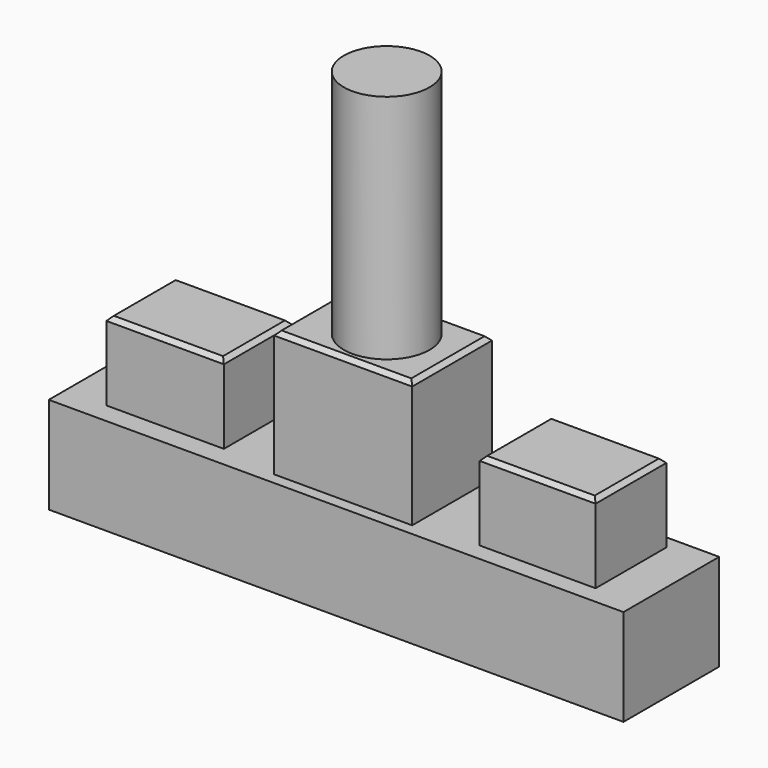
from build123d import *

# Parameters (mm, degrees)
F0_W      = 101.3216488063
F0_H      = 117.805339396
F1_DEPTH  = 145.796
F2_W      = 145.796
F2_H      = 117.805339396
F3_DEPTH  = 89.916
F4_W      = 168.2205758989
F4_H      = 121.5348821133
F5_DEPTH  = 153.924
F6_SIZE   = 5.08
F7_W      = 145.796
F7_H      = 117.805339396
F8_DEPTH  = 254.508
F9_W      = 145.796
F9_H      = 117.805339396
F10_DEPTH = 254.508
F11_W     = 143.2336866856
F11_H     = 104.3559815735
F11_W_2   = 141.1875188351
F11_H_2   = 107.7663134784
F12_DEPTH = 95.758
F13_SIZE  = 5.08
F14_R     = 52.2748523049
F15_DEPTH = 281.686


with BuildPart() as f1:
    # F0 (on Front) → F1 (new body)
    with BuildSketch(Plane.XZ):
        with Locations((-1.7741117626, -7.8057236969)):
            Rectangle(F0_W, F0_H)
    extrude(amount=F1_DEPTH)

    # F2 (on face) → F3 (join)
    with BuildSketch(Plane.YZ.offset(48.8867126405)):
        with Locations((-72.898, -7.8057236969)):
            Rectangle(F2_W, F2_H)
    extrude(amount=F3_DEPTH)

    # F4 (on face) → F5 (join)
    with BuildSketch(Plane.XY.offset(51.0969460011)):
        with Locations((40.545957163, -71.0269669071)):
            Rectangle(F4_W, F4_H)
    extrude(amount=F5_DEPTH)

    # F6
    f6_edges = [f1.edges().sort_by_distance(p)[0] for p in [
        (40.545957, -131.794408, 205.020946),
        (124.656245, -71.026967, 205.020946),
        (40.545957, -10.259526, 205.020946),
        (-43.564331, -71.026967, 205.020946),
    ]]
    chamfer(f6_edges, length=F6_SIZE)

    # F7 (on face) → F8 (join)
    with BuildSketch(Plane.YZ.offset(138.8027126405)):
        with Locations((-72.898, -7.8057236969)):
            Rectangle(F7_W, F7_H)
    extrude(amount=F8_DEPTH)

    # F9 (on face) → F10 (join)
    with BuildSketch(Plane(origin=(-52.4349361658, 0, 0), x_dir=(0, -1, 0), z_dir=(-1, 0, 0))):
        with Locations((72.898, -7.8057236969)):
            Rectangle(F9_W, F9_H)
    extrude(amount=F10_DEPTH)

    # F11 (on face) → F12 (join)
    with BuildSketch(Plane.XY.offset(51.0969460011)):
        with Locations((-185.3079646826, -68.4645744041)):
            Rectangle(F11_W, F11_H)
        with Locations((271.3347226381, -70.1697403565)):
            Rectangle(F11_W_2, F11_H_2)
    extrude(amount=F12_DEPTH)

    # F13
    f13_edges = [f1.edges().sort_by_distance(p)[0] for p in [
        (-185.307965, -16.286584, 146.854946),
        (-113.691121, -68.464574, 146.854946),
        (-185.307965, -120.642565, 146.854946),
        (-256.924808, -68.464574, 146.854946),
        (271.334723, -16.286584, 146.854946),
        (200.740963, -70.16974, 146.854946),
        (341.928482, -70.16974, 146.854946),
        (271.334723, -124.052897, 146.854946),
    ]]
    chamfer(f13_edges, length=F13_SIZE)

    # F14 (on face) → F15 (join)
    with BuildSketch(Plane.XY.offset(205.0209460011)):
        with Locations((44.2011877894, -70.0180381536)):
            Circle(F14_R)
    extrude(amount=F15_DEPTH)


solid = f1.part
